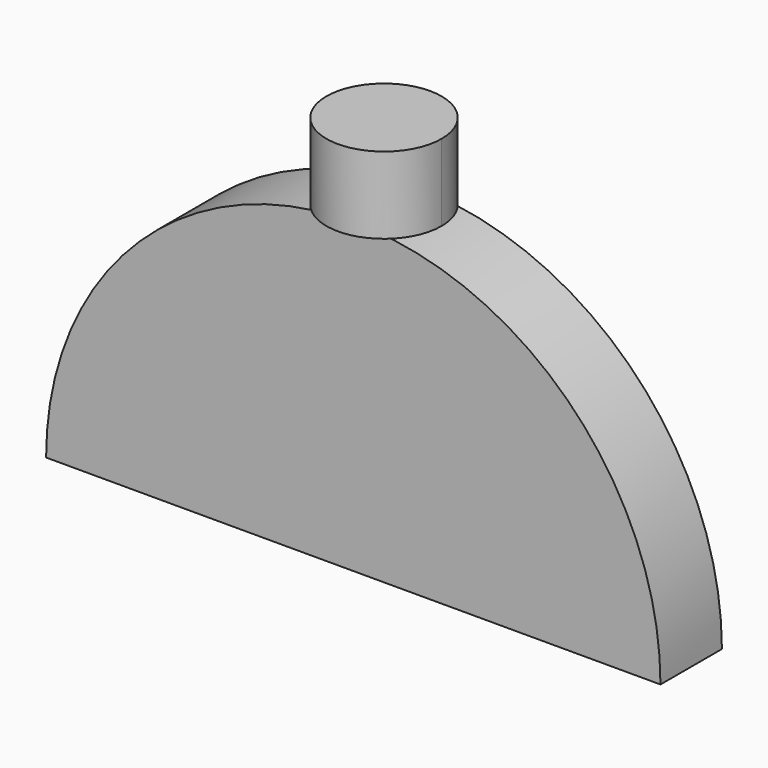
from build123d import *

# Parameters (mm, degrees)
F1_DEPTH = 50.8
F4_DEPTH = 50.8


with BuildPart() as f1:
    # F0 (on Front) → F1 (new body)
    with BuildSketch(Plane.XZ):
        with BuildLine():
            ThreePointArc((406.4, 0), (203.2, 203.2), (0, 0))
            Line((0, 0), (406.4, 0))
        make_face()
    extrude(amount=F1_DEPTH)

    # F3 (on offset) → F4 (join)
    with BuildSketch(Plane.XY.offset(202.946)):
        with BuildLine():
            ThreePointArc((174.801937, 0), (189.605078, -60.991967), (241.3, -25.4))
            ThreePointArc((241.3, -25.4), (216.794922, 10.191967), (174.801937, 0))
        make_face()
    extrude(amount=F4_DEPTH)


solid = f1.part
